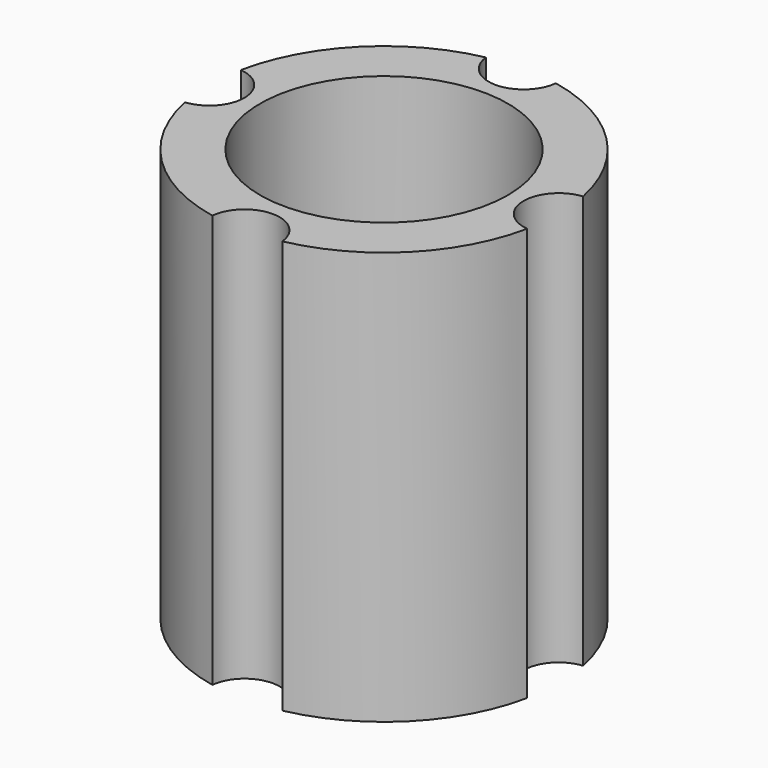
from build123d import *

# Parameters (mm, degrees)
F0_R     = 38.1
F1_DEPTH = 127


with BuildPart() as f1:
    # F0 (on Top) → F1 (new body)
    with BuildSketch(Plane.XY):
        with BuildLine():
            ThreePointArc((52.61052, -10.740323), (42.900637, 0), (52.61052, 10.740323))
            ThreePointArc((52.61052, 10.740323), (37.968549, 37.968549), (10.740323, 52.61052))
            ThreePointArc((10.740323, 52.61052), (0, 42.900637), (-10.740323, 52.61052))
            ThreePointArc((-10.740323, 52.61052), (-37.968549, 37.968549), (-52.61052, 10.740323))
            ThreePointArc((-52.61052, 10.740323), (-45.687957, 7.239413), (-42.900637, 0))
            ThreePointArc((-42.900637, 0), (-45.687957, -7.239413), (-52.61052, -10.740323))
            ThreePointArc((-52.61052, -10.740323), (-37.938747, -37.998327), (-10.657753, -52.627309))
            ThreePointArc((-10.657753, -52.627309), (0.06732, -42.900584), (10.822867, -52.593602))
            ThreePointArc((10.822867, -52.593602), (37.998327, -37.938747), (52.61052, -10.740323))
        make_face()
        Circle(F0_R, mode=Mode.SUBTRACT)
    extrude(amount=F1_DEPTH)


solid = f1.part
